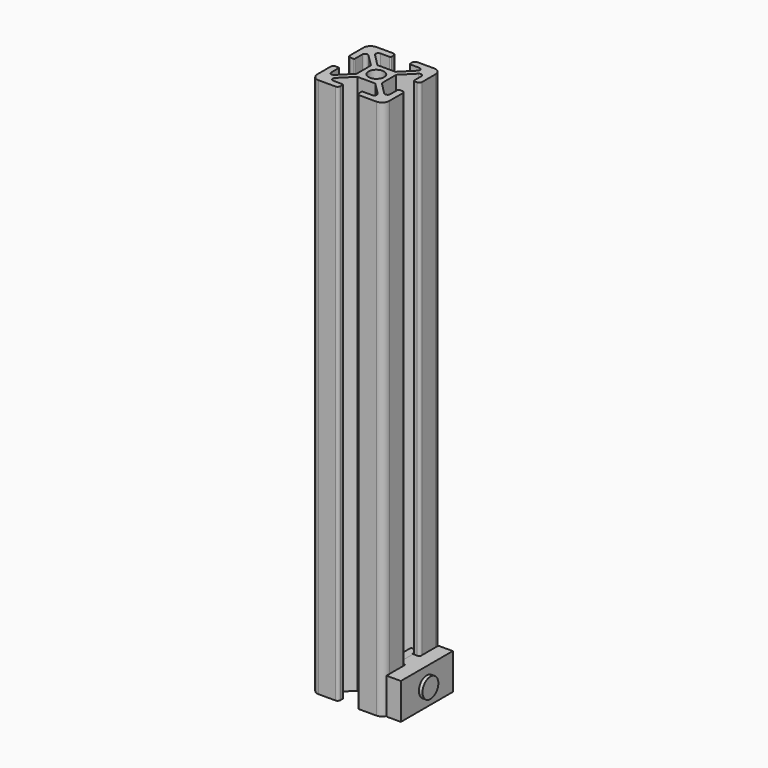
from build123d import *

# Parameters (mm, degrees)
BODY005_ROLL_ANGLE      = -90
BODY005_PLACEMENT_ANGLE = -90
COPYSKETCH029_R         = 2.15
PAD_DEPTH               = 150
PAD006_DEPTH            = 10
PAD007_DEPTH            = 10


with BuildPart() as din912_m3x8:
    # Sketch011 → Revolution002 (revolve)
    with BuildSketch(Plane.XZ):
        Polygon((0, 3), (0, -8), (1.5, -8), (1.5, 0), (2.75, 0), (2.75, 3), align=None)
    revolve(axis=Axis((0, 0, 0), (0, 0, 1)))


with BuildPart() as din912_m3x8_1:
    # Body005 roll: moved
    add(din912_m3x8.part.rotate(Axis((0, 0, 0), (1, 0, 0)), BODY005_ROLL_ANGLE))


with BuildPart() as din912_m3x8_2:
    # Body005 placement: moved
    add(din912_m3x8_1.part.moved(Location((12, 0, 5))).rotate(Axis((12, 0, 5), (0, 0, 1)), BODY005_PLACEMENT_ANGLE))


with BuildPart() as obj1:
    # CopySketch029 → Pad (new body)
    with BuildSketch(Plane.XY):
        with BuildLine():
            Line((-2.5, 3.5), (-5.91967, 6.91967))
            ThreePointArc((-5.38934, 8.2), (-6.082249, 7.737013), (-5.91967, 6.91967))
            Line((-5.38934, 8.2), (-2.85, 8.2))
            ThreePointArc((-2.85, 8.2), (-2.673223, 8.273223), (-2.6, 8.45))
            Line((-2.6, 9.25), (-2.6, 8.45))
            ThreePointArc((-2.6, 9.25), (-2.81967, 9.78033), (-3.35, 10))
            Line((-3.35, 10), (-8, 10))
            ThreePointArc((-8, 10), (-9.414214, 9.414214), (-10, 8))
            Line((-10, 8), (-10, 3.35))
            ThreePointArc((-10, 3.35), (-9.78033, 2.81967), (-9.25, 2.6))
            Line((-9.25, 2.6), (-8.45, 2.6))
            ThreePointArc((-8.45, 2.6), (-8.273223, 2.673223), (-8.2, 2.85))
            Line((-8.2, 2.85), (-8.2, 5.38934))
            ThreePointArc((-6.91967, 5.91967), (-7.737013, 6.082249), (-8.2, 5.38934))
            Line((-6.91967, 5.91967), (-3.5, 2.5))
            Line((-3.5, 2.5), (-3.5, 0))
            Line((-3.5, 0), (-3.5, -2.5))
            Line((-3.5, -2.5), (-6.91967, -5.91967))
            ThreePointArc((-8.2, -5.38934), (-7.737013, -6.082249), (-6.91967, -5.91967))
            Line((-8.2, -5.38934), (-8.2, -2.85))
            ThreePointArc((-8.2, -2.85), (-8.273223, -2.673223), (-8.45, -2.6))
            Line((-8.45, -2.6), (-9.25, -2.6))
            ThreePointArc((-9.25, -2.6), (-9.78033, -2.81967), (-10, -3.35))
            Line((-10, -8), (-10, -3.35))
            ThreePointArc((-10, -8), (-9.414214, -9.414214), (-8, -10))
            Line((-3.35, -10), (-8, -10))
            ThreePointArc((-3.35, -10), (-2.81967, -9.78033), (-2.6, -9.25))
            Line((-2.6, -8.45), (-2.6, -9.25))
            ThreePointArc((-2.6, -8.45), (-2.673223, -8.273223), (-2.85, -8.2))
            Line((-5.38934, -8.2), (-2.85, -8.2))
            ThreePointArc((-5.91967, -6.91967), (-6.082249, -7.737013), (-5.38934, -8.2))
            Line((-2.5, -3.5), (-5.91967, -6.91967))
            Line((-2.5, -3.5), (0, -3.5))
            Line((0, -3.5), (2.5, -3.5))
            Line((2.5, -3.5), (5.91967, -6.91967))
            ThreePointArc((5.38934, -8.2), (6.082249, -7.737013), (5.91967, -6.91967))
            Line((2.85, -8.2), (5.38934, -8.2))
            ThreePointArc((2.85, -8.2), (2.673223, -8.273223), (2.6, -8.45))
            Line((2.6, -8.45), (2.6, -9.25))
            ThreePointArc((2.6, -9.25), (2.81967, -9.78033), (3.35, -10))
            Line((3.35, -10), (8, -10))
            ThreePointArc((8, -10), (9.414214, -9.414214), (10, -8))
            Line((10, -8), (10, -3.35))
            ThreePointArc((10, -3.35), (9.78033, -2.81967), (9.25, -2.6))
            Line((8.45, -2.6), (9.25, -2.6))
            ThreePointArc((8.45, -2.6), (8.273223, -2.673223), (8.2, -2.85))
            Line((8.2, -5.38934), (8.2, -2.85))
            ThreePointArc((6.91967, -5.91967), (7.737013, -6.082249), (8.2, -5.38934))
            Line((3.5, -2.5), (6.91967, -5.91967))
            Line((3.5, -2.5), (3.5, 0))
            Line((3.5, 0), (3.5, 2.5))
            Line((3.5, 2.5), (6.91967, 5.91967))
            ThreePointArc((8.2, 5.38934), (7.737013, 6.082249), (6.91967, 5.91967))
            Line((8.2, 5.38934), (8.2, 2.85))
            ThreePointArc((8.2, 2.85), (8.273223, 2.673223), (8.45, 2.6))
            Line((8.45, 2.6), (9.25, 2.6))
            ThreePointArc((9.25, 2.6), (9.78033, 2.81967), (10, 3.35))
            Line((10, 8), (10, 3.35))
            ThreePointArc((10, 8), (9.414214, 9.414214), (8, 10))
            Line((3.35, 10), (8, 10))
            ThreePointArc((3.35, 10), (2.81967, 9.78033), (2.6, 9.25))
            Line((2.6, 9.25), (2.6, 8.45))
            ThreePointArc((2.6, 8.45), (2.673223, 8.273223), (2.85, 8.2))
            Line((5.38934, 8.2), (2.85, 8.2))
            ThreePointArc((5.91967, 6.91967), (6.082249, 7.737013), (5.38934, 8.2))
            Line((2.5, 3.5), (5.91967, 6.91967))
            Line((0, 3.5), (2.5, 3.5))
            Line((0, 3.5), (-2.5, 3.5))
        make_face()
        Circle(COPYSKETCH029_R, mode=Mode.SUBTRACT)
    extrude(amount=PAD_DEPTH)


with BuildPart() as obj2:
    # Sketch012 → Pad006 (new body)
    with BuildSketch(Plane.XY):
        Polygon((14, 9), (14, -9), (10, -9), (10, -2.6), (8.4, -1), (7, -1), (6, 0), (6, 4.5), (7.533692, 4.5), (8, 3.5), (8, 2.5), (9.65, 2.5), (10, 2.7), (10, 9), align=None)
    extrude(amount=PAD006_DEPTH)


with BuildPart() as obj3:
    # Sketch013 → Pad007 (new body)
    with BuildSketch(Plane.XY):
        Polygon((14, 9), (14, -9), (10, -9), (10, -2.5), (8.2, -2.5), (8.2, 2.5), (10, 2.5), (10, 9), align=None)
    extrude(amount=PAD007_DEPTH)

    # Sketch014 (on Face9 of Pad007) → Groove (revolve, cut)
    with BuildSketch(Plane(origin=(12, 0, 5), x_dir=(0, -1, 0), z_dir=(0, 0, 1))):
        Polygon((0, 3), (2.85, 3), (2.85, 0.5), (1.6, -0.75), (1.6, -10), (0, -10), align=None)
    revolve(axis=Axis((12, 0, 5), (1, 0, 0)), mode=Mode.SUBTRACT)


solid = Compound([din912_m3x8_2.part, obj1.part, obj2.part, obj3.part])
